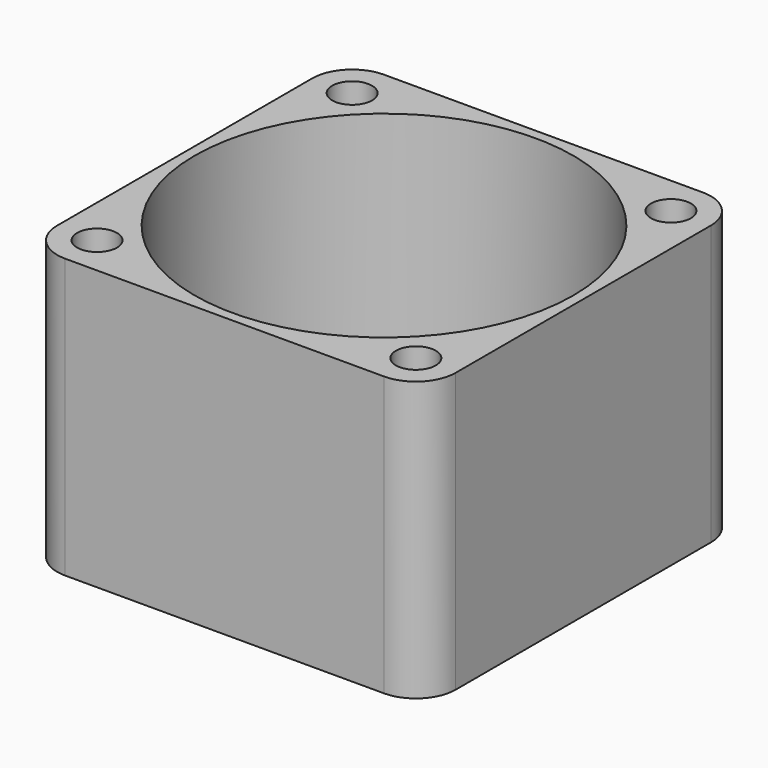
from build123d import *

# Parameters (mm, degrees)
F0_R     = 2
F0_R_2   = 19
F1_DEPTH = 28


with BuildPart() as f1:
    # F0 (on Top) → F1 (new body)
    with BuildSketch(Plane.XY):
        with BuildLine():
            ThreePointArc((-20, -16), (-18.828427, -18.828427), (-16, -20))
            Line((-16, -20), (16, -20))
            ThreePointArc((16, -20), (18.828427, -18.828427), (20, -16))
            Line((20, -16), (20, 16))
            ThreePointArc((20, 16), (18.828427, 18.828427), (16, 20))
            Line((16, 20), (-16, 20))
            ThreePointArc((-16, 20), (-18.828427, 18.828427), (-20, 16))
            Line((-20, 16), (-20, -16))
        make_face()
        with Locations((-16, -16)):
            Circle(F0_R, mode=Mode.SUBTRACT)
        with Locations((16, -16)):
            Circle(F0_R, mode=Mode.SUBTRACT)
        with Locations((-16, 16)):
            Circle(F0_R, mode=Mode.SUBTRACT)
        Circle(F0_R_2, mode=Mode.SUBTRACT)
        with Locations((16, 16)):
            Circle(F0_R, mode=Mode.SUBTRACT)
    extrude(amount=F1_DEPTH)


solid = f1.part
